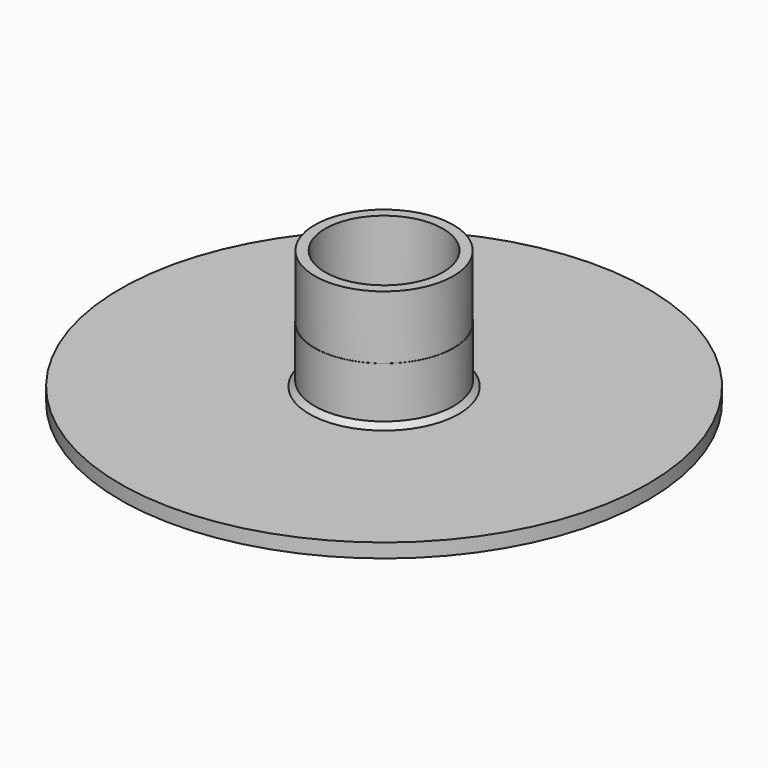
from build123d import *

# Parameters (mm, degrees)
SKETCH026_R     = 30
PAD018_DEPTH    = 1.6
SKETCH027_R     = 7.9
SKETCH027_R_2   = 6.7
PAD019_DEPTH    = 6.4
SKETCH028_R     = 7.875
SKETCH028_R_2   = 6.7
PAD020_DEPTH    = 7.2
SKETCH029_R     = 6.7000000001
POCKET006_DEPTH = 1.601
CHAMFER008_SIZE = 0.6


with BuildPart() as part:
    # Sketch026 → Pad018 (new body)
    with BuildSketch(Plane.XY):
        Circle(SKETCH026_R)
    extrude(amount=PAD018_DEPTH)

    # Sketch027 → Pad019 (join)
    with BuildSketch(Plane.XY.offset(1.6)):
        Circle(SKETCH027_R)
        Circle(SKETCH027_R_2, mode=Mode.SUBTRACT)
    extrude(amount=PAD019_DEPTH)

    # Sketch028 → Pad020 (join)
    with BuildSketch(Plane.XY.offset(8)):
        Circle(SKETCH028_R)
        Circle(SKETCH028_R_2, mode=Mode.SUBTRACT)
    extrude(amount=PAD020_DEPTH)

    # Sketch029 → Pocket006 (cut, through all)
    with BuildSketch(Plane.XY.offset(1.6)):
        Circle(SKETCH029_R)
    extrude(amount=-POCKET006_DEPTH, mode=Mode.SUBTRACT)

    # Chamfer008
    chamfer008_edges = [part.edges().sort_by_distance(p)[0] for p in [
        (-7.9, 0, 1.6),
    ]]
    chamfer(chamfer008_edges, length=CHAMFER008_SIZE)


solid = part.part
